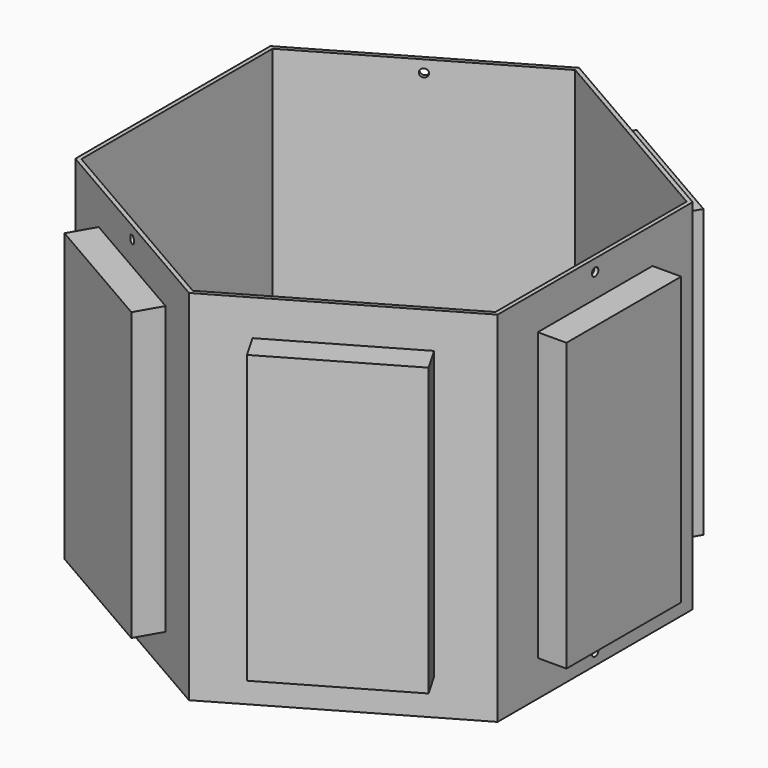
from build123d import *

# Parameters (mm, degrees)
PAD_DEPTH      = 150
SKETCH_R       = 1.7
HOLE_DEPTH     = 25
HOLE_TIPS_R    = 1.7
SKETCH008_R    = 1.7
HOLE001_DEPTH  = 25
HOLE001_TIPS_R = 1.7
SKETCH009_R    = 1.7
HOLE002_DEPTH  = 25
HOLE002_TIPS_R = 1.7
SKETCH010_W    = 60
SKETCH010_H    = 120
PAD001_DEPTH   = 12
SKETCH012_W    = 60
SKETCH012_H    = 120
PAD002_DEPTH   = 12
SKETCH013_W    = 60
SKETCH013_H    = 120
PAD003_DEPTH   = 12
SKETCH015_W    = 60
SKETCH015_H    = 120
PAD004_DEPTH   = 12
SKETCH016_W    = 60
SKETCH016_H    = 120
PAD005_DEPTH   = 12
SKETCH017_W    = 60
SKETCH017_H    = 120
PAD006_DEPTH   = 12


with BuildPart() as part:
    # Sketch007 → Pad (new body)
    with BuildSketch(Plane.XY):
        Polygon((88.334591186, 51), (0, 102), (-88.334591186, 51), (-88.334591186, -51), (0, -102), (88.334591186, -51), align=None)
        Polygon((86.6025403784, 50), (0, 100), (-86.6025403784, 50), (-86.6025403784, -50), (0, -100), (86.6025403784, -50), align=None, mode=Mode.SUBTRACT)
    extrude(amount=PAD_DEPTH)

    # Sketch (on Face6 of Pad) → Hole (cut)
    with BuildSketch(Plane.YZ.offset(88.334591186)):
        with Locations((0, 5)):
            Circle(SKETCH_R)
        with Locations((0, 145)):
            Circle(SKETCH_R)
    extrude(amount=-HOLE_DEPTH, mode=Mode.SUBTRACT)

    # Hole tips → Hole tip 1 section 0
    with BuildSketch(Plane.YZ.offset(63.334591186), mode=Mode.PRIVATE) as hole_tip_1_s0:
        with Locations((0, 5)):
            Circle(HOLE_TIPS_R)
    loft([hole_tip_1_s0.sketch, Vertex(62.3131281337, 0, 5)], mode=Mode.SUBTRACT)

    # Hole tips → Hole tip 2 section 0
    with BuildSketch(Plane.YZ.offset(63.334591186), mode=Mode.PRIVATE) as hole_tip_2_s0:
        with Locations((0, 145)):
            Circle(HOLE_TIPS_R)
    loft([hole_tip_2_s0.sketch, Vertex(62.3131281337, 0, 145)], mode=Mode.SUBTRACT)

    # Sketch008 (on Face3 of Hole) → Hole001 (cut)
    with BuildSketch(Plane(origin=(-44.167295593, 76.5, 0), x_dir=(-0.8660254038, -0.5, 0), z_dir=(-0.5, 0.8660254038, 0))):
        with Locations((0, 5)):
            Circle(SKETCH008_R)
        with Locations((0, 145)):
            Circle(SKETCH008_R)
    extrude(amount=-HOLE001_DEPTH, mode=Mode.SUBTRACT)

    # Hole001 tips → Hole001 tip 1 section 0
    with BuildSketch(Plane(origin=(-31.667295593, 54.8493649054, 0), x_dir=(-0.8660254038, -0.5, 0), z_dir=(-0.5, 0.8660254038, 0)), mode=Mode.PRIVATE) as hole001_tip_1_s0:
        with Locations((0, 5)):
            Circle(HOLE001_TIPS_R)
    loft([hole001_tip_1_s0.sketch, Vertex(-31.1565640668, 53.964751953, 5)], mode=Mode.SUBTRACT)

    # Hole001 tips → Hole001 tip 2 section 0
    with BuildSketch(Plane(origin=(-31.667295593, 54.8493649054, 0), x_dir=(-0.8660254038, -0.5, 0), z_dir=(-0.5, 0.8660254038, 0)), mode=Mode.PRIVATE) as hole001_tip_2_s0:
        with Locations((0, 145)):
            Circle(HOLE001_TIPS_R)
    loft([hole001_tip_2_s0.sketch, Vertex(-31.1565640668, 53.964751953, 145)], mode=Mode.SUBTRACT)

    # Sketch009 (on Face10 of Hole) → Hole002 (cut)
    with BuildSketch(Plane(origin=(-44.167295593, -76.5, 0), x_dir=(0.8660254038, -0.5, 0), z_dir=(-0.5, -0.8660254038, 0))):
        with Locations((0, 5)):
            Circle(SKETCH009_R)
        with Locations((0, 145)):
            Circle(SKETCH009_R)
    extrude(amount=-HOLE002_DEPTH, mode=Mode.SUBTRACT)

    # Hole002 tips → Hole002 tip 1 section 0
    with BuildSketch(Plane(origin=(-31.667295593, -54.8493649054, 0), x_dir=(0.8660254038, -0.5, 0), z_dir=(-0.5, -0.8660254038, 0)), mode=Mode.PRIVATE) as hole002_tip_1_s0:
        with Locations((0, 5)):
            Circle(HOLE002_TIPS_R)
    loft([hole002_tip_1_s0.sketch, Vertex(-31.1565640668, -53.964751953, 5)], mode=Mode.SUBTRACT)

    # Hole002 tips → Hole002 tip 2 section 0
    with BuildSketch(Plane(origin=(-31.667295593, -54.8493649054, 0), x_dir=(0.8660254038, -0.5, 0), z_dir=(-0.5, -0.8660254038, 0)), mode=Mode.PRIVATE) as hole002_tip_2_s0:
        with Locations((0, 145)):
            Circle(HOLE002_TIPS_R)
    loft([hole002_tip_2_s0.sketch, Vertex(-31.1565640668, -53.964751953, 145)], mode=Mode.SUBTRACT)

    # Sketch010 (on Face12 of Hole002) → Pad001 (join)
    with BuildSketch(Plane(origin=(-44.167295593, -76.5, 0), x_dir=(0.8660254038, -0.5, 0), z_dir=(-0.5, -0.8660254038, 0))):
        with Locations((0, 75)):
            Rectangle(SKETCH010_W, SKETCH010_H)
    extrude(amount=PAD001_DEPTH)

    # Sketch012 (on Face6 of Hole002) → Pad002 (join)
    with BuildSketch(Plane(origin=(44.167295593, -76.5, 0), x_dir=(0.8660254038, 0.5, 0), z_dir=(0.5, -0.8660254038, 0))):
        with Locations((0, 75)):
            Rectangle(SKETCH012_W, SKETCH012_H)
    extrude(amount=PAD002_DEPTH)

    # Sketch013 (on Face2 of Hole002) → Pad003 (join)
    with BuildSketch(Plane.YZ.offset(88.334591186)):
        with Locations((0, 75)):
            Rectangle(SKETCH013_W, SKETCH013_H)
    extrude(amount=PAD003_DEPTH)

    # Sketch015 (on Face1 of Hole002) → Pad004 (join)
    with BuildSketch(Plane(origin=(44.167295593, 76.5, 0), x_dir=(-0.8660254038, 0.5, 0), z_dir=(0.5, 0.8660254038, 0))):
        with Locations((0, 75)):
            Rectangle(SKETCH015_W, SKETCH015_H)
    extrude(amount=PAD004_DEPTH)

    # Sketch016 (on Face3 of Hole002) → Pad005 (join)
    with BuildSketch(Plane(origin=(-44.167295593, 76.5, 0), x_dir=(-0.8660254038, -0.5, 0), z_dir=(-0.5, 0.8660254038, 0))):
        with Locations((0, 75)):
            Rectangle(SKETCH016_W, SKETCH016_H)
    extrude(amount=PAD005_DEPTH)

    # Sketch017 (on Face9 of Hole002) → Pad006 (join)
    with BuildSketch(Plane(origin=(-88.334591186, 0, 0), x_dir=(0, -1, 0), z_dir=(-1, 0, 0))):
        with Locations((0, 75)):
            Rectangle(SKETCH017_W, SKETCH017_H)
    extrude(amount=PAD006_DEPTH)


solid = part.part
